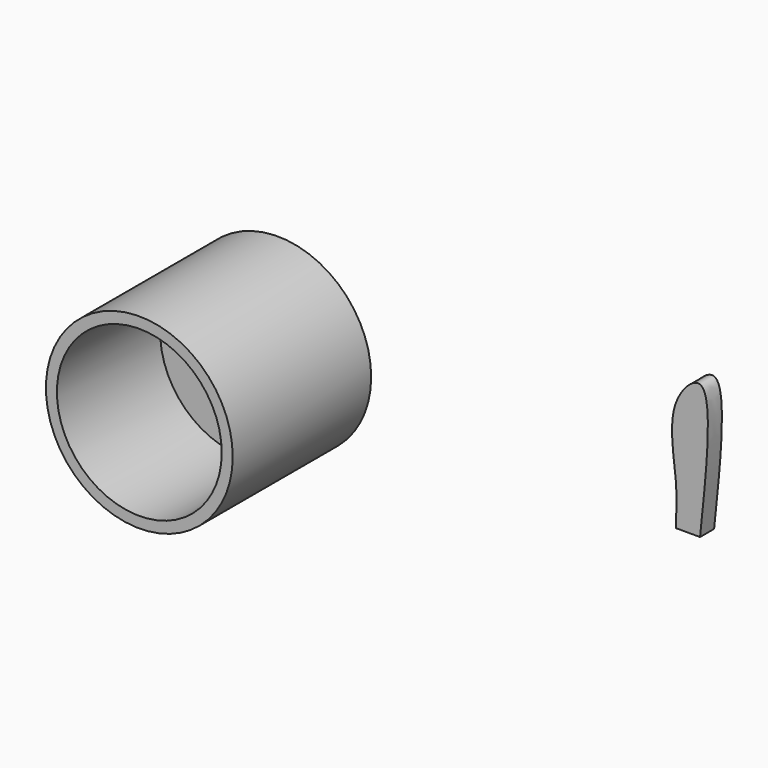
from build123d import *

# Parameters (mm, degrees)
F0_R     = 10.795
F0_R_2   = 9.525
F1_DEPTH = 20
F2_DEPTH = 5.08
F4_DEPTH = 2.032


with BuildPart() as f1:
    # F0 (on Front) → F1 (new body)
    with BuildSketch(Plane.XZ):
        with Locations((-33.0882482231, 15.7028976828)):
            Circle(F0_R)
        with Locations((-33.0882482231, 15.7028976828)):
            Circle(F0_R_2, mode=Mode.SUBTRACT)
    extrude(amount=F1_DEPTH)

    # F0 (on Front) → F2 (join)
    with BuildSketch(Plane.XZ):
        with Locations((-33.0882482231, 15.7028976828)):
            Circle(F0_R_2)
    extrude(amount=F2_DEPTH)


with BuildPart() as f4:
    # F3 (on Front) → F4 (new body)
    with BuildSketch(Plane.XZ):
        with BuildLine():
            add(Edge.make_bspline(
                [(14.5322615281, 13.1285758689), (14.6216661387, 14.6532123868), (14.8229754038, 18.0861836272), (13.2038389614, 25.578497741), (19.3033824048, 31.775655622), (18.1233349997, 20.5703536662), (17.3396300524, 13.1285758689)],
                knots=[0, 0, 0, 0, 0.2033764564, 0.4579357229, 0.6399988222, 1, 1, 1, 1], degree=3))
            Line((14.5322615281, 13.1285758689), (17.3396300524, 13.1285758689))
        make_face()
    extrude(amount=F4_DEPTH)


solid = Compound([f1.part, f4.part])
